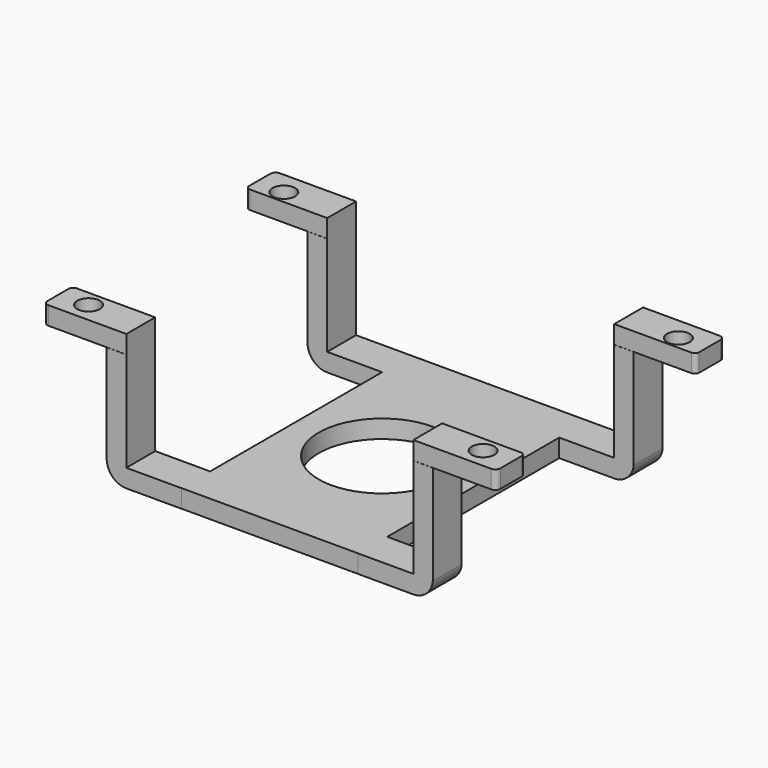
from build123d import *

# Parameters (mm, degrees)
SKETCH076_R  = 7
PAD046_DEPTH = 2
PAD047_DEPTH = 3.99
PAD048_DEPTH = 3.99
SKETCH_R     = 1.25
PAD_DEPTH    = 2


with BuildPart() as pad046:
    # Sketch076 → Pad046 (new body)
    with BuildSketch(Plane.XY.offset(-13)):
        Polygon((-9.775637, 74.2107), (0, 74.2107), (9.775637, 74.2107), (9.775637, 42.511509), (0, 42.511509), (-9.775637, 42.511509), align=None)
        with Locations((0, 58)):
            Circle(SKETCH076_R, mode=Mode.SUBTRACT)
    extrude(amount=-PAD046_DEPTH)


with BuildPart() as pad047:
    # Sketch077 → Pad047 (new body)
    with BuildSketch(Plane.XZ.offset(-42.5)):
        with BuildLine():
            Line((-15.842702, -2), (-18, -2))
            Line((-18, -2), (-18, -13.000001))
            ThreePointArc((-18, -13.000001), (-17.291527, -14.434217), (-15.795265, -15))
            Line((-15.795265, -15), (-9.741142, -15))
            Line((-9.741142, -13), (-9.741142, -15))
            Line((-15.842702, -13), (-9.741142, -13))
            Line((-15.842702, -13), (-15.842702, -2))
        make_face()
        with BuildLine():
            Line((15.842702, -2), (18, -2))
            Line((18, -2), (18, -13.000001))
            ThreePointArc((15.795265, -15), (17.291527, -14.434217), (18, -13.000001))
            Line((15.795265, -15), (9.741142, -15))
            Line((9.741142, -13), (9.741142, -15))
            Line((15.842702, -13), (9.741142, -13))
            Line((15.842702, -13), (15.842702, -2))
        make_face()
    extrude(amount=-PAD047_DEPTH)


with BuildPart() as pad048:
    # Sketch078 → Pad048 (new body)
    with BuildSketch(Plane.XZ.offset(-74.21)):
        with BuildLine():
            Line((-15.842702, -2), (-18, -2))
            Line((-18, -2), (-18, -13.000001))
            ThreePointArc((-18, -13.000001), (-17.291527, -14.434217), (-15.795265, -15))
            Line((-15.795265, -15), (-9.741142, -15))
            Line((-9.741142, -13), (-9.741142, -15))
            Line((-15.842702, -13), (-9.741142, -13))
            Line((-15.842702, -13), (-15.842702, -2))
        make_face()
        with BuildLine():
            Line((15.842702, -2), (18, -2))
            Line((18, -2), (18, -13.000001))
            ThreePointArc((15.795265, -15), (17.291527, -14.434217), (18, -13.000001))
            Line((15.795265, -15), (9.741142, -15))
            Line((9.741142, -13), (9.741142, -15))
            Line((15.842702, -13), (9.741142, -13))
            Line((15.842702, -13), (15.842702, -2))
        make_face()
    extrude(amount=PAD048_DEPTH)


with BuildPart() as battery_holder001:
    # Sketch → Pad (new body)
    with BuildSketch(Plane(origin=(0, 0, 0), x_dir=(-1, 0, 0), z_dir=(0, 0, 1))):
        with BuildLine():
            Line((-25, -43.074277), (-25, -46.007702))
            ThreePointArc((-25, -46.007702), (-24.85848, -46.349363), (-24.516819, -46.490883))
            Line((-15.842702, -46.490883), (-24.516819, -46.490883))
            Line((-15.842702, -42.511509), (-15.842702, -46.490883))
            Line((-24.437232, -42.511509), (-15.842702, -42.511509))
            ThreePointArc((-24.437232, -42.511509), (-24.835169, -42.67634), (-25, -43.074277))
        make_face()
        with Locations((-21.781596, -44.715717)):
            Circle(SKETCH_R, mode=Mode.SUBTRACT)
        with BuildLine():
            Line((-24.842702, -70.71451), (-24.842702, -73.647932))
            ThreePointArc((-24.842702, -73.647932), (-24.677871, -74.045869), (-24.279934, -74.2107))
            Line((-15.842702, -74.2107), (-24.279934, -74.2107))
            Line((-15.842702, -70.23133), (-15.842702, -74.2107))
            Line((-24.359522, -70.23133), (-15.842702, -70.23133))
            ThreePointArc((-24.359522, -70.23133), (-24.701182, -70.37285), (-24.842702, -70.71451))
        make_face()
        with Locations((-21.781596, -71.660071)):
            Circle(SKETCH_R, mode=Mode.SUBTRACT)
        with BuildLine():
            Line((25, -43.074277), (25, -46.007702))
            ThreePointArc((24.516819, -46.490883), (24.85848, -46.349363), (25, -46.007702))
            Line((15.842702, -46.490883), (24.516819, -46.490883))
            Line((15.842702, -42.511509), (15.842702, -46.490883))
            Line((24.437232, -42.511509), (15.842702, -42.511509))
            ThreePointArc((25, -43.074277), (24.835169, -42.67634), (24.437232, -42.511509))
        make_face()
        with Locations((21.781596, -44.715717)):
            Circle(SKETCH_R, mode=Mode.SUBTRACT)
        with BuildLine():
            Line((24.842702, -70.71451), (24.842702, -73.647932))
            ThreePointArc((24.279934, -74.2107), (24.677871, -74.045869), (24.842702, -73.647932))
            Line((15.842702, -74.2107), (24.279934, -74.2107))
            Line((15.842702, -70.23133), (15.842702, -74.2107))
            Line((24.359522, -70.23133), (15.842702, -70.23133))
            ThreePointArc((24.842702, -70.71451), (24.701182, -70.37285), (24.359522, -70.23133))
        make_face()
        with Locations((21.781596, -71.660071)):
            Circle(SKETCH_R, mode=Mode.SUBTRACT)
    extrude(amount=-PAD_DEPTH)

    # Fusion: union Pad046, Pad047, Pad048
    add(pad046.part)
    add(pad047.part)
    add(pad048.part)


solid = battery_holder001.part
